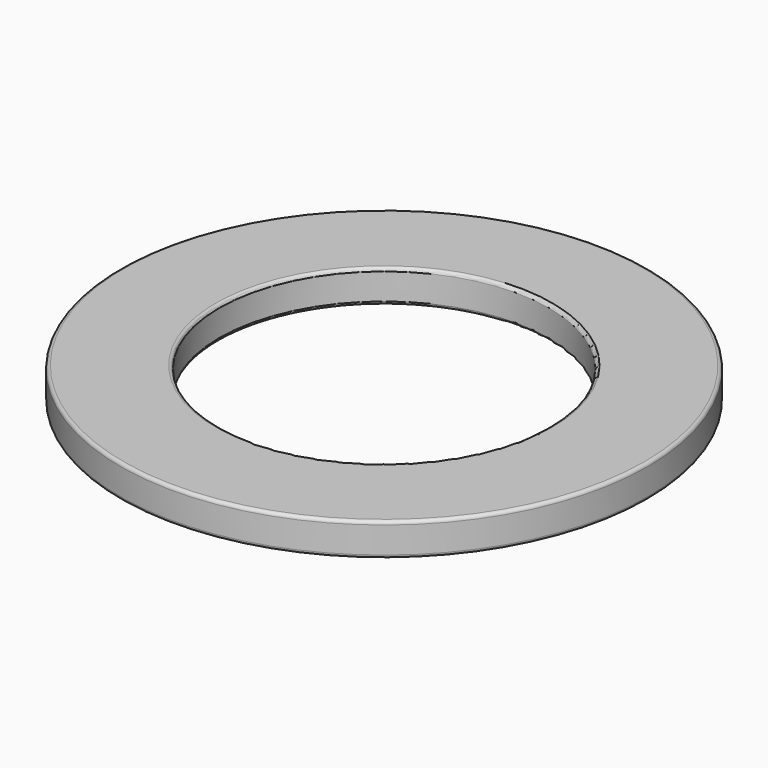
from build123d import *

# Parameters (mm, degrees)
SKETCH001_R   = 80
SKETCH001_R_2 = 50
PAD001_DEPTH  = 10
FILLET001_R   = 1


with BuildPart() as part:
    # Sketch001 → Pad001 (new body)
    with BuildSketch(Plane.XY):
        Circle(SKETCH001_R)
        Circle(SKETCH001_R_2, mode=Mode.SUBTRACT)
    extrude(amount=PAD001_DEPTH)

    # Fillet001
    fillet001_edges = [part.edges().sort_by_distance(p)[0] for p in [
        (-80, 0, 10),
        (-80, 0, 0),
        (-50, 0, 10),
        (-50, 0, 0),
    ]]
    fillet(fillet001_edges, radius=FILLET001_R)


with BuildPart() as part_1:
    # Body001 placement: moved
    add(part.part.moved(Location((0, 0, -59))))


solid = part_1.part
